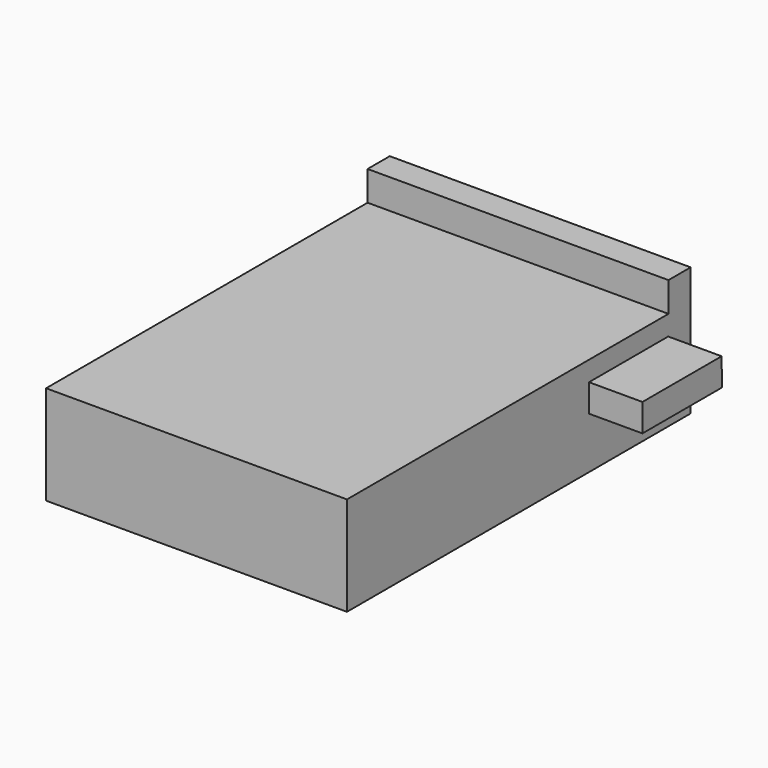
from build123d import *

# Parameters (mm, degrees)
F0_W     = 1520
F0_H     = 500
F1_DEPTH = 2030
F2_W     = 1520
F2_H     = 650
F3_DEPTH = 140
F5_DEPTH = 270


with BuildPart() as f1:
    # F0 (on Front) → F1 (new body)
    with BuildSketch(Plane.XZ):
        Rectangle(F0_W, F0_H)
    extrude(amount=F1_DEPTH)



with BuildPart() as f3:
    # F2 (on face) → F3 (new body)
    with BuildSketch(Plane(origin=(0, 0, 0), x_dir=(-1, 0, 0), z_dir=(0, 1, 0))):
        with Locations((0, 75)):
            Rectangle(F2_W, F2_H)
    extrude(amount=F3_DEPTH)


with BuildPart() as f1_1:
    add(f1.part)

    add(f3.part)  # F5 merges F3
    # F4 (on face) → F5 (join)
    with BuildSketch(Plane.YZ.offset(760)):
        Polygon((0, 10), (-1.812994, 150), (-501.812994, 150), (-501.812994, 10), align=None)
    extrude(amount=F5_DEPTH)


solid = f1_1.part
